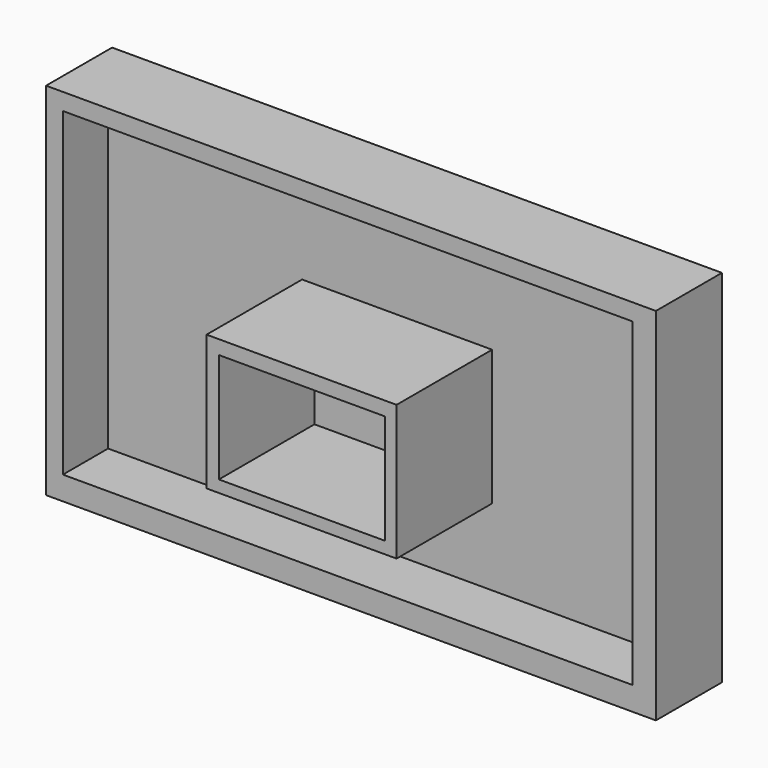
from build123d import *

# Parameters (mm, degrees)
F0_W     = 71.338967
F0_H     = 42.17276
F1_DEPTH = 3.048
F2_W     = 71.338967
F2_H     = 42.17276
F2_W_2   = 66.609312
F2_H_2   = 37.443103
F3_DEPTH = 6.604
F4_W     = 22.226787
F4_H     = 15.836691
F4_W_2   = 19.411293
F4_H_2   = 12.809481
F5_DEPTH = 13.97


with BuildPart() as f1:
    # F0 (on Front) → F1 (new body)
    with BuildSketch(Plane.XZ):
        with Locations((-3.153104, 3.547242)):
            Rectangle(F0_W, F0_H)
    extrude(amount=F1_DEPTH)

    # F2 (on face) → F3 (join)
    with BuildSketch(Plane.XZ.offset(3.048)):
        with Locations((-3.153104, 3.547242)):
            Rectangle(F2_W, F2_H)
        with Locations((-3.547242, 3.941378)):
            Rectangle(F2_W_2, F2_H_2, mode=Mode.SUBTRACT)
    extrude(amount=F3_DEPTH)

    # F4 (on face) → F5 (join)
    with BuildSketch(Plane.XZ.offset(3.048)):
        with Locations((-3.042677, 2.090226)):
            Rectangle(F4_W, F4_H)
        with Locations((-3.005302, 1.970689)):
            Rectangle(F4_W_2, F4_H_2, mode=Mode.SUBTRACT)
    extrude(amount=F5_DEPTH)


solid = f1.part
